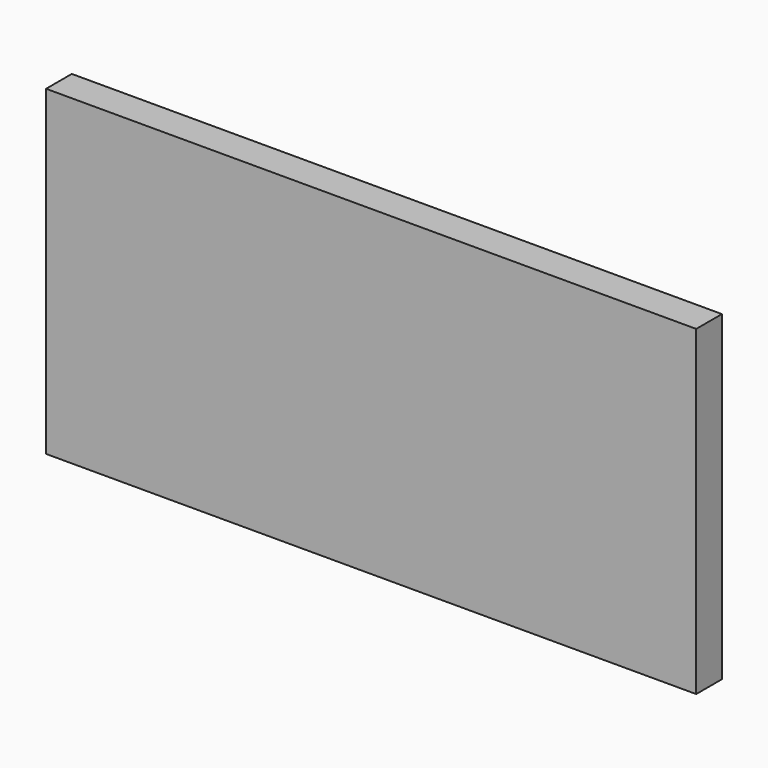
from build123d import *

# Parameters (mm, degrees)
F0_W     = 1181.1
F0_H     = 571.5
F1_DEPTH = 50.8
F2_DEPTH = 25.4
F3_DEPTH = 6.35


with BuildPart() as f1:
    # F0 (on Front) → F1 (new body)
    with BuildSketch(Plane.XZ):
        with Locations((0, 2.4073491804)):
            Rectangle(F0_W, F0_H)
    extrude(amount=F1_DEPTH)

    # F2 (cut): a face of the model
    f2_faces = [f1.faces().sort_by_distance(p)[0] for p in [
        (-590.55, -25.4, 2.4073491804),
    ]]
    extrude(f2_faces, amount=-F2_DEPTH, mode=Mode.SUBTRACT)

    # F3 (add): a face of the model
    f3_faces = [f1.faces().sort_by_distance(p)[0] for p in [
        (12.7, -50.8, 2.4073491804),
    ]]
    extrude(f3_faces, amount=F3_DEPTH)


solid = f1.part
